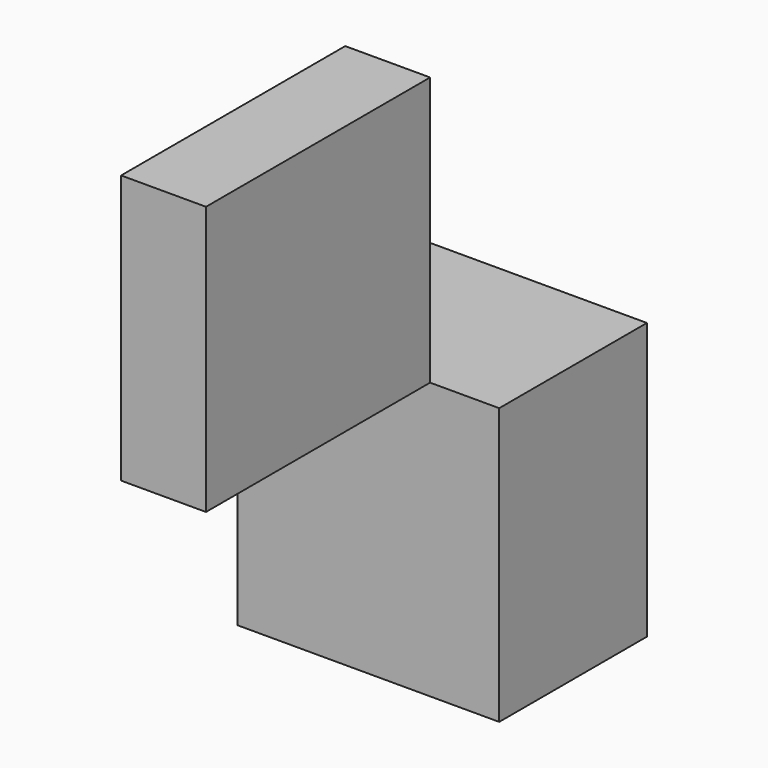
from build123d import *

# Parameters (mm, degrees)
F0_W     = 50.377898
F0_H     = 75.38107
F1_DEPTH = 71.374
F2_W     = 23.165593
F2_H     = 73.32933
F3_DEPTH = 76.454


with BuildPart() as f1:
    # F0 (on Right) → F1 (new body)
    with BuildSketch(Plane.YZ):
        with Locations((-25.188949, 37.690535)):
            Rectangle(F0_W, F0_H)
    extrude(amount=F1_DEPTH)


with BuildPart() as f3:
    # F2 (on face) → F3 (new body)
    with BuildSketch(Plane.XZ.offset(50.377898)):
        with Locations((40.925881, 112.045735)):
            Rectangle(F2_W, F2_H)
    extrude(amount=F3_DEPTH)


solid = Compound([f1.part, f3.part])
